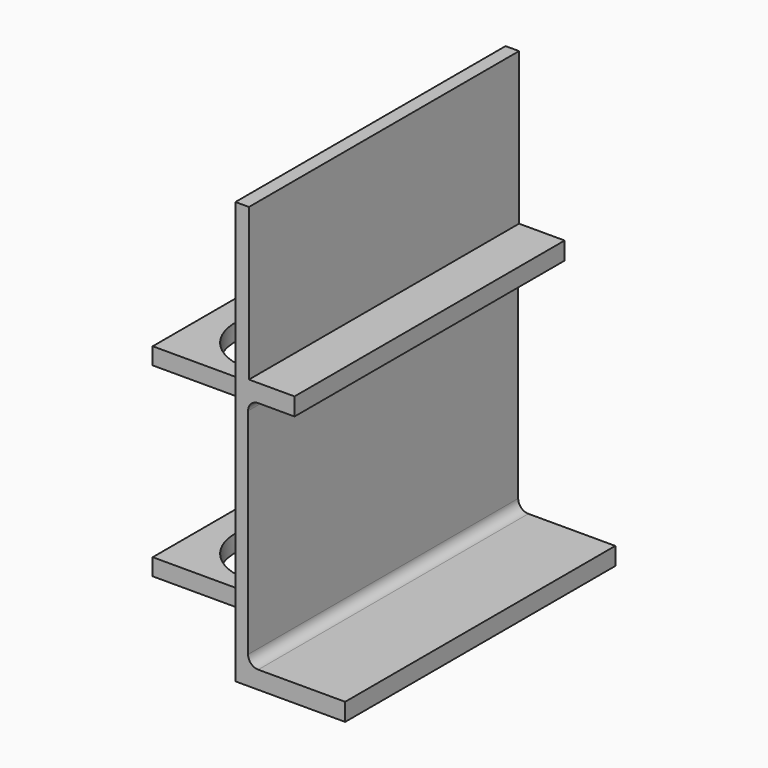
from build123d import *

# Parameters (mm, degrees)
F0_W     = 8
F0_H     = 90
F1_DEPTH = 200
F3_W     = 95
F3_H     = 85
F3_R     = 32.5
F4_DEPTH = 10
F6_W     = 95
F6_H     = 85
F6_R     = 32.5
F7_DEPTH = 10


with BuildPart() as f1:
    # F0 (on Front) → F1 (new body)
    with BuildSketch(Plane.XZ):
        with BuildLine():
            Line((2.5, 69.5), (2.5, 80))
            Line((2.5, 80), (-24.5, 80))
            Line((-24.5, 80), (-32.5, 80))
            Line((-32.5, 80), (-32.5, -80))
            Line((-32.5, -80), (32.5, -80))
            Line((32.5, -80), (32.5, -69.5))
            Line((32.5, -69.5), (-19, -69.5))
            ThreePointArc((-19, -69.5), (-23.2426406871, -67.7426406871), (-25, -63.5))
            Line((-25, -63.5), (-25, 63.5))
            ThreePointArc((-25, 63.5), (-23.2426406871, 67.7426406871), (-19, 69.5))
            Line((-19, 69.5), (2.5, 69.5))
        make_face()
        with Locations((-28.5, 125)):
            Rectangle(F0_W, F0_H)
    extrude(amount=-F1_DEPTH)

    # F3 (on offset) → F4 (join)
    with BuildSketch(Plane.XY.offset(-69.5)):
        with Locations((-80, 100)):
            Rectangle(F3_W, F3_H)
        with Locations((-80, 100)):
            Circle(F3_R, mode=Mode.SUBTRACT)
    extrude(amount=-F4_DEPTH)

    # F6 (on offset) → F7 (join)
    with BuildSketch(Plane.XY.offset(30.5)):
        with Locations((-80, 100)):
            Rectangle(F6_W, F6_H)
        with Locations((-80, 100)):
            Circle(F6_R, mode=Mode.SUBTRACT)
    extrude(amount=F7_DEPTH)


solid = f1.part
